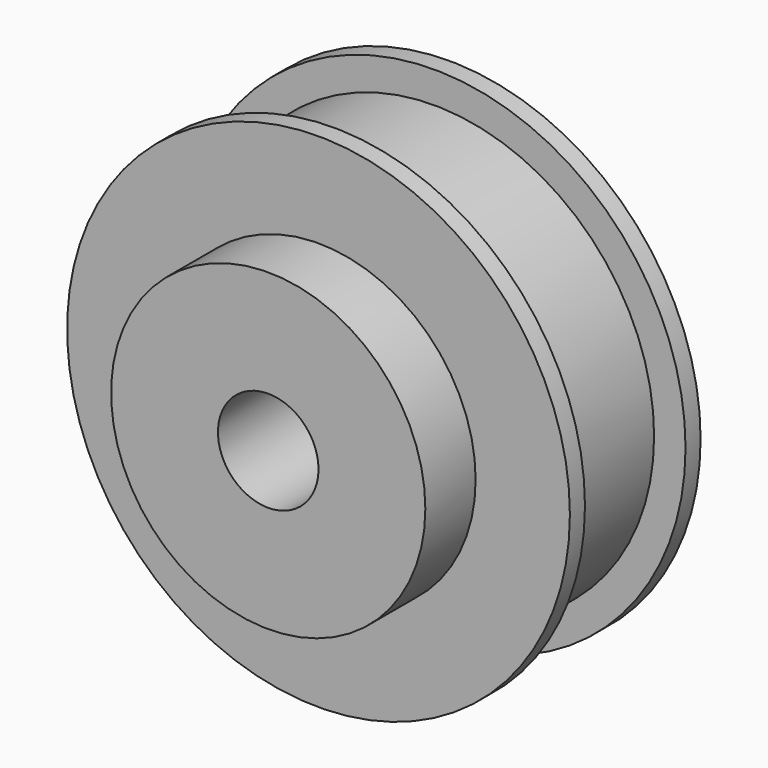
from build123d import *

# Parameters (mm, degrees)
F0_R     = 20
F1_DEPTH = 1.5
F2_R     = 17.5
F3_DEPTH = 10
F4_R     = 20
F5_DEPTH = 1.5
F6_R     = 12.5
F7_DEPTH = 5
F8_R     = 4
F9_DEPTH = 20


with BuildPart() as f1:
    # F0 (on Front) → F1 (new body)
    with BuildSketch(Plane.XZ):
        Circle(F0_R)
    extrude(amount=F1_DEPTH)

    # F2 (on face) → F3 (join)
    with BuildSketch(Plane.XZ.offset(1.5)):
        Circle(F2_R)
    extrude(amount=F3_DEPTH)

    # F4 (on face) → F5 (join)
    with BuildSketch(Plane.XZ.offset(11.5)):
        Circle(F4_R)
    extrude(amount=F5_DEPTH)

    # F6 (on face) → F7 (join)
    with BuildSketch(Plane.XZ.offset(13)):
        Circle(F6_R)
    extrude(amount=F7_DEPTH)

    # F8 (on face) → F9 (cut)
    with BuildSketch(Plane.XZ.offset(18)):
        Circle(F8_R)
    extrude(amount=-F9_DEPTH, mode=Mode.SUBTRACT)


solid = f1.part
